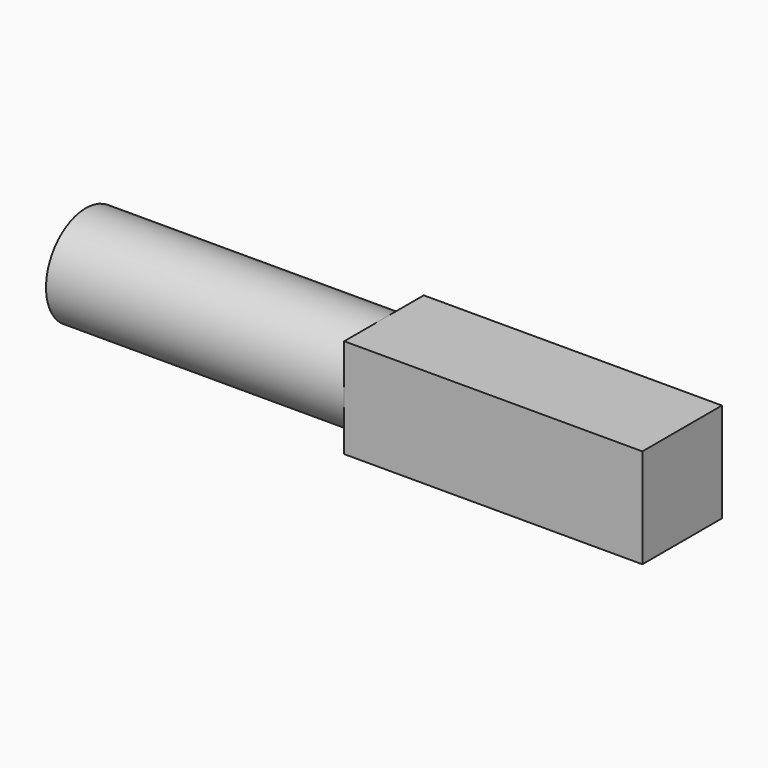
from build123d import *

# Parameters (mm, degrees)
F0_R     = 2.5
F1_DEPTH = 15
F2_W     = 5
F2_H     = 5
F3_DEPTH = 15


with BuildPart() as f1:
    # F0 (on Right) → F1 (new body)
    with BuildSketch(Plane.YZ):
        Circle(F0_R)
    extrude(amount=F1_DEPTH)

    # F2 (on face) → F3 (join)
    with BuildSketch(Plane.YZ.offset(15)):
        Rectangle(F2_W, F2_H)
    extrude(amount=F3_DEPTH)


solid = f1.part
